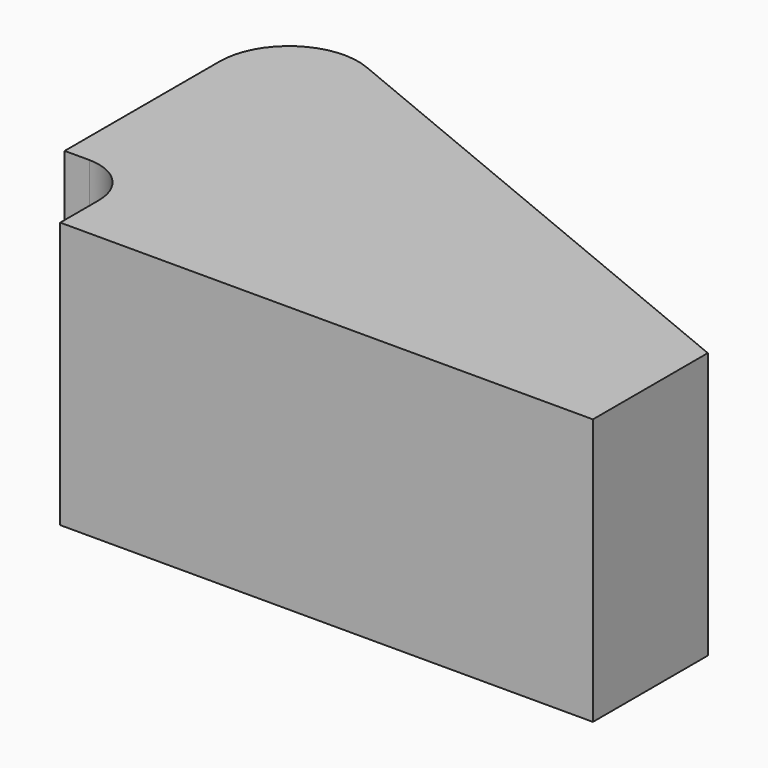
from build123d import *

# Parameters (mm, degrees)
F1_DEPTH = 2.75
F2_R     = 1


with BuildPart() as f1:
    # F0 (on Top) → F1 (new body, symmetric)
    with BuildSketch(Plane.XY):
        with BuildLine():
            ThreePointArc((-6.53093, 6.322043), (-7.87303, 6.189453), (-8.508654, 5))
            Line((-8.508654, 5), (-8.508654, 1))
            Line((-8.508654, 1), (-7, 1))
            Line((-7, 1), (-7, -1))
            Line((-7, -1), (4, -1))
            Line((4, -1), (4, 1.964902))
            Line((4, 1.964902), (-6.53093, 6.322043))
        make_face()
    extrude(amount=F1_DEPTH, both=True)

    # F2
    f2_edges = [f1.edges().sort_by_distance(p)[0] for p in [
        (-7, 1, 0),
    ]]
    fillet(f2_edges, radius=F2_R)


solid = f1.part
